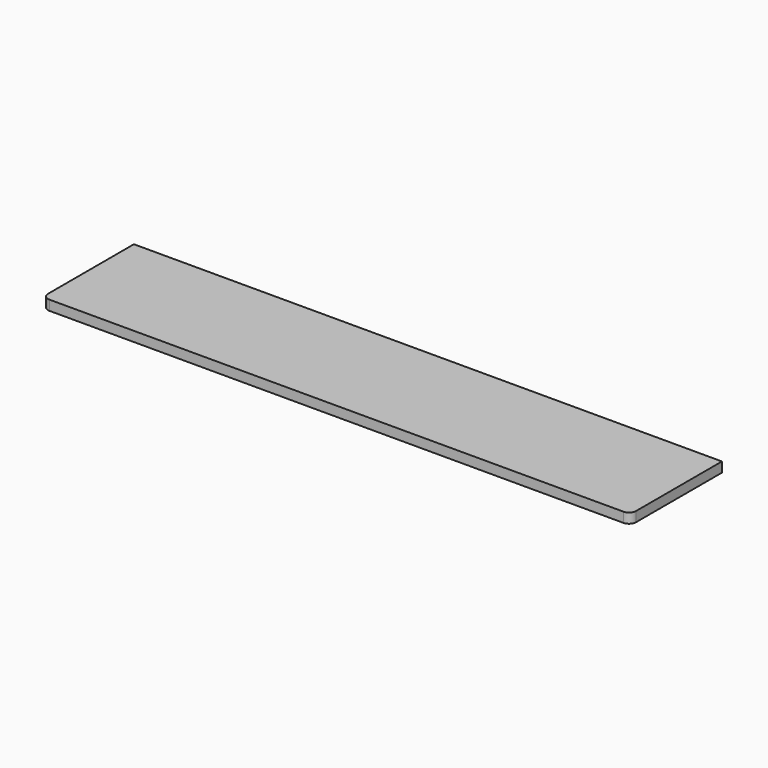
from build123d import *

# Parameters (mm, degrees)
BOX_W       = 833
BOX_H       = 162
BOX_DEPTH   = 14
FILLET_R    = 10
FILLET001_R = 10


with BuildPart() as part:
    # Box → Box (new body)
    with BuildSketch(Plane.XY):
        with Locations((416.5, 81)):
            Rectangle(BOX_W, BOX_H)
    extrude(amount=BOX_DEPTH)

    # Fillet
    fillet_edges = [part.edges().sort_by_distance(p)[0] for p in [
        (0, 0, 7),
    ]]
    fillet(fillet_edges, radius=FILLET_R)

    # Fillet001
    fillet001_edges = [part.edges().sort_by_distance(p)[0] for p in [
        (833, 0, 7),
    ]]
    fillet(fillet001_edges, radius=FILLET001_R)


solid = part.part
